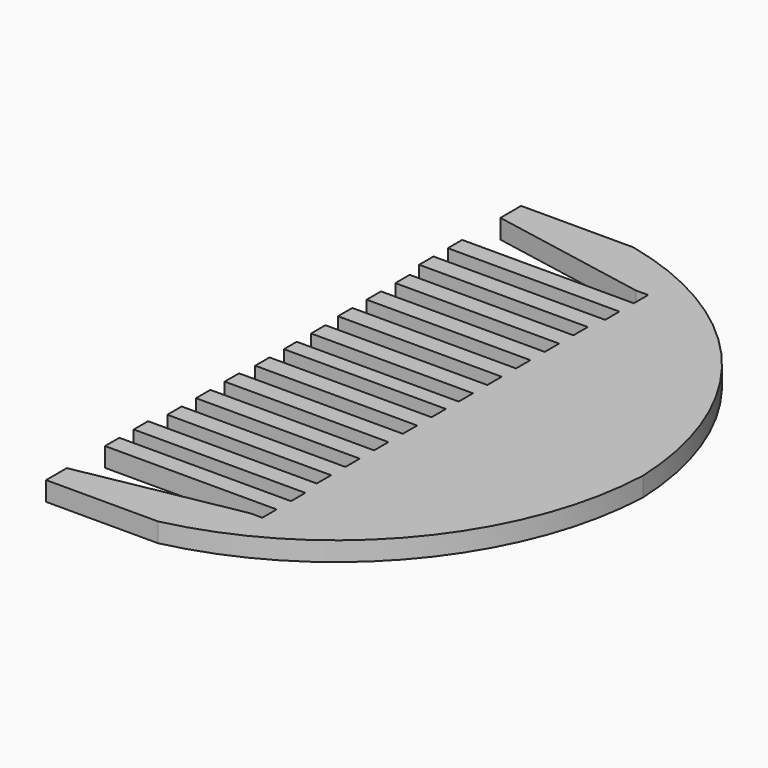
from build123d import *

# Parameters (mm, degrees)
F1_DEPTH = 3


with BuildPart() as f1:
    # F0 (on Top) → F1 (new body)
    with BuildSketch(Plane.XY):
        with BuildLine():
            Line((-39.892867, 0), (-57.391304, 0))
            Line((-57.391304, 0), (-57.391304, -4.045027))
            Line((-57.391304, -4.045027), (-32.494808, -8.701925))
            Line((-32.494808, -8.701925), (-30.596264, -8.701925))
            Line((-30.596264, -8.701925), (-30.596264, -11.501925))
            Line((-30.596264, -11.501925), (-57.391304, -11.501925))
            Line((-57.391304, -11.501925), (-57.391304, -14.301925))
            Line((-57.391304, -14.301925), (-30.596264, -14.301925))
            Line((-30.596264, -14.301925), (-30.596264, -17.101925))
            Line((-30.596264, -17.101925), (-57.391304, -17.101925))
            Line((-57.391304, -17.101925), (-57.391304, -19.901925))
            Line((-57.391304, -19.901925), (-31.060893, -19.901925))
            Line((-31.060893, -19.901925), (-31.060893, -22.701925))
            Line((-31.060893, -22.701925), (-56.627642, -22.701925))
            Line((-56.627642, -22.701925), (-56.627642, -25.501925))
            Line((-56.627642, -25.501925), (-31.060893, -25.501925))
            Line((-31.060893, -25.501925), (-31.060893, -28.301925))
            Line((-31.060893, -28.301925), (-56.627642, -28.301925))
            Line((-56.627642, -28.301925), (-56.627642, -31.101925))
            Line((-56.627642, -31.101925), (-31.060893, -31.101925))
            Line((-31.060893, -31.101925), (-31.060893, -33.901925))
            Line((-31.060893, -33.901925), (-56.627642, -33.901925))
            Line((-56.627642, -33.901925), (-56.627642, -36.701925))
            Line((-56.627642, -36.701925), (-31.060893, -36.701925))
            Line((-31.060893, -36.701925), (-31.060893, -39.501925))
            Line((-31.060893, -39.501925), (-56.34404, -39.501925))
            Line((-56.34404, -39.501925), (-56.34404, -42.301925))
            Line((-56.34404, -42.301925), (-31.060893, -42.301925))
            Line((-31.060893, -42.301925), (-31.060893, -45.101925))
            Line((-31.060893, -45.101925), (-56.34404, -45.101925))
            Line((-56.34404, -45.101925), (-56.34404, -46.351925))
            Line((-56.34404, -46.351925), (-56.34404, -47.601925))
            Line((-56.34404, -47.601925), (-31.060893, -47.601925))
            Line((-31.060893, -47.601925), (-31.060893, -50.401925))
            Line((-31.060893, -50.401925), (-56.34404, -50.401925))
            Line((-56.34404, -50.401925), (-56.34404, -53.201925))
            Line((-56.34404, -53.201925), (-31.060893, -53.201925))
            Line((-31.060893, -53.201925), (-31.060893, -56.001925))
            Line((-31.060893, -56.001925), (-56.627642, -56.001925))
            Line((-56.627642, -56.001925), (-56.627642, -58.801925))
            Line((-56.627642, -58.801925), (-31.060893, -58.801925))
            Line((-31.060893, -58.801925), (-31.060893, -61.601925))
            Line((-31.060893, -61.601925), (-56.627642, -61.601925))
            Line((-56.627642, -61.601925), (-56.627642, -64.401925))
            Line((-56.627642, -64.401925), (-31.060893, -64.401925))
            Line((-31.060893, -64.401925), (-31.060893, -67.201925))
            Line((-31.060893, -67.201925), (-56.627642, -67.201925))
            Line((-56.627642, -67.201925), (-56.627642, -70.001925))
            Line((-56.627642, -70.001925), (-31.060893, -70.001925))
            Line((-31.060893, -70.001925), (-31.060893, -72.801925))
            Line((-31.060893, -72.801925), (-57.391304, -72.801925))
            Line((-57.391304, -72.801925), (-57.391304, -75.601925))
            Line((-57.391304, -75.601925), (-30.596264, -75.601925))
            Line((-30.596264, -75.601925), (-30.596264, -78.401925))
            Line((-30.596264, -78.401925), (-57.391304, -78.401925))
            Line((-57.391304, -78.401925), (-57.391304, -81.201925))
            Line((-57.391304, -81.201925), (-30.596264, -81.201925))
            Line((-30.596264, -81.201925), (-30.596264, -84.001925))
            Line((-30.596264, -84.001925), (-32.494808, -84.001925))
            Line((-32.494808, -84.001925), (-57.391304, -88.658823))
            Line((-57.391304, -88.658823), (-57.391304, -92.70385))
            Line((-57.391304, -92.70385), (-39.892867, -92.70385))
            ThreePointArc((-39.892867, -92.70385), (-12.737124, -76.069348), (-1.29091, -46.351925))
            ThreePointArc((-1.29091, -46.351925), (-12.737124, -16.634502), (-39.892867, 0))
        make_face()
    extrude(amount=F1_DEPTH)


solid = f1.part
